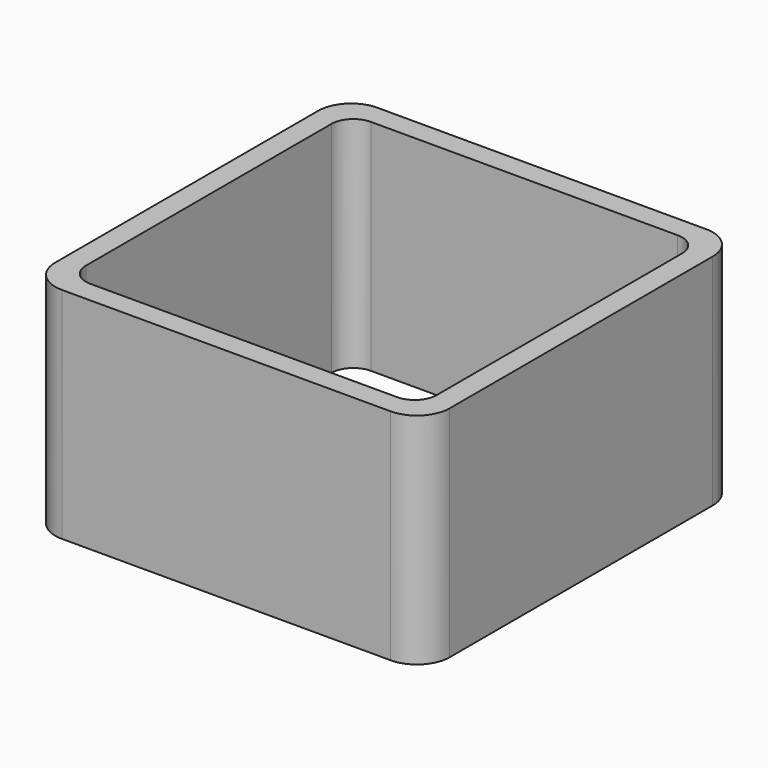
from build123d import *

# Parameters (mm, degrees)
EXTRUDE_DEPTH = 50


with BuildPart() as part:
    # Sketch → Extrude (new body)
    with BuildSketch(Plane.XY):
        with BuildLine():
            Line((-37.5, 45), (37.5, 45))
            ThreePointArc((45, 37.5), (42.803301, 42.803301), (37.5, 45))
            Line((45, 37.5), (45, -37.5))
            ThreePointArc((37.5, -45), (42.803301, -42.803301), (45, -37.5))
            Line((37.5, -45), (-37.5, -45))
            ThreePointArc((-45, -37.5), (-42.803301, -42.803301), (-37.5, -45))
            Line((-45, -37.5), (-45, 37.5))
            ThreePointArc((-37.5, 45), (-42.803301, 42.803301), (-45, 37.5))
        make_face()
        with BuildLine():
            Line((-35, 40), (35, 40))
            ThreePointArc((40, 35), (38.535534, 38.535534), (35, 40))
            Line((40, 35), (40, -35))
            ThreePointArc((35, -40), (38.535534, -38.535534), (40, -35))
            Line((35, -40), (-35, -40))
            ThreePointArc((-40, -35), (-38.535534, -38.535534), (-35, -40))
            Line((-40, -35), (-40, 35))
            ThreePointArc((-35, 40), (-38.535534, 38.535534), (-40, 35))
        make_face(mode=Mode.SUBTRACT)
    extrude(amount=EXTRUDE_DEPTH)


solid = part.part
